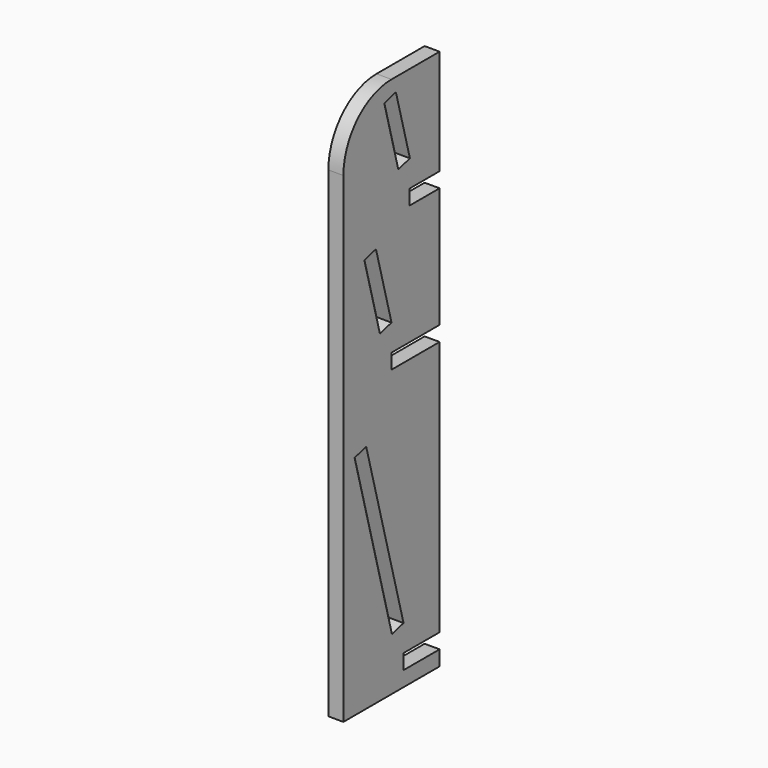
from build123d import *

# Parameters (mm, degrees)
F1_DEPTH = 12.7


with BuildPart() as f1:
    # F0 (on Right) → F1 (new body)
    with BuildSketch(Plane.YZ):
        with BuildLine():
            Line((-101.6, 0), (0, 0))
            Line((0, 0), (0, 12.7))
            Line((0, 12.7), (-38.1, 12.7))
            Line((-38.1, 12.7), (-38.1, 25.4))
            Line((-38.1, 25.4), (0, 25.4))
            Line((0, 25.4), (0, 241.3))
            Line((0, 241.3), (-50.8, 241.3))
            Line((-50.8, 241.3), (-50.8, 254))
            Line((-50.8, 254), (0, 254))
            Line((0, 254), (0, 355.6))
            Line((0, 355.6), (-31.75, 355.6))
            Line((-31.75, 355.6), (-31.75, 368.3))
            Line((-31.75, 368.3), (0, 368.3))
            Line((0, 368.3), (0, 457.2))
            Line((0, 457.2), (-50.8, 457.2))
            ThreePointArc((-50.8, 457.2), (-86.721024, 442.321024), (-101.6, 406.4))
            Line((-101.6, 406.4), (-101.6, 0))
        make_face()
        Polygon((-77.544022, 194.944098), (-38.1, 47.737002), (-50.367258, 44.45), (-89.81128, 191.657096), align=None, mode=Mode.SUBTRACT)
        Polygon((-63.067258, 273.05), (-79.502267, 334.38629), (-67.235009, 337.673292), (-50.8, 276.337002), align=None, mode=Mode.SUBTRACT)
        Polygon((-43.65244, 387.35), (-58.443948, 442.552661), (-46.17669, 445.839663), (-31.385182, 390.637002), align=None, mode=Mode.SUBTRACT)
    extrude(amount=F1_DEPTH)


solid = f1.part
